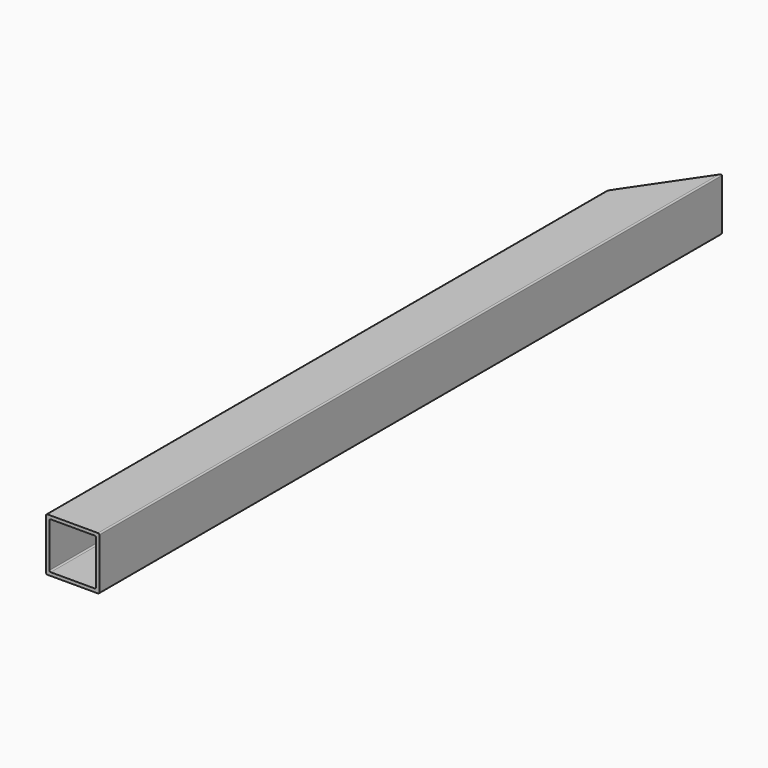
from build123d import *

# Parameters (mm, degrees)
F0_W     = 101.6
F0_H     = 376.3636363636
F1_DEPTH = 50.8
F2_W     = 88.9
F2_H     = 88.9
F3_DEPTH = 1476.9896363636
F4_R     = 2.5


with BuildPart() as f1:
    # F0 (on Top) → F1 (new body, symmetric)
    with BuildSketch(Plane.XY):
        Polygon((560, -75), (560, 75), (458.4, -75), (458.4, -658.6363636364), (560, -658.6363636364), align=None)
        Polygon((458.4, -75), (560, 75), (560, 301.3636363636), (560, 451.3636363636), (458.4, 301.3636363636), align=None)
        with Locations((509.2, -846.8181818182)):
            Rectangle(F0_W, F0_H)
    extrude(amount=F1_DEPTH, both=True)

    # F2 (on face) → F3 (cut, through all)
    with BuildSketch(Plane.XZ.offset(1035)):
        with Locations((509.2, 0)):
            Rectangle(F2_W, F2_H)
    extrude(amount=-F3_DEPTH, mode=Mode.SUBTRACT)

    # F4
    f4_edges = [f1.edges().sort_by_distance(p)[0] for p in [
        (560, -291.818182, 50.8),
        (458.4, -366.818182, 50.8),
        (458.4, -366.818182, -50.8),
        (560, -291.818182, -50.8),
        (464.75, -362.130682, 44.45),
        (553.65, -296.505682, 44.45),
        (553.65, -296.505682, -44.45),
        (464.75, -362.130682, -44.45),
    ]]
    fillet(f4_edges, radius=F4_R)


solid = f1.part
